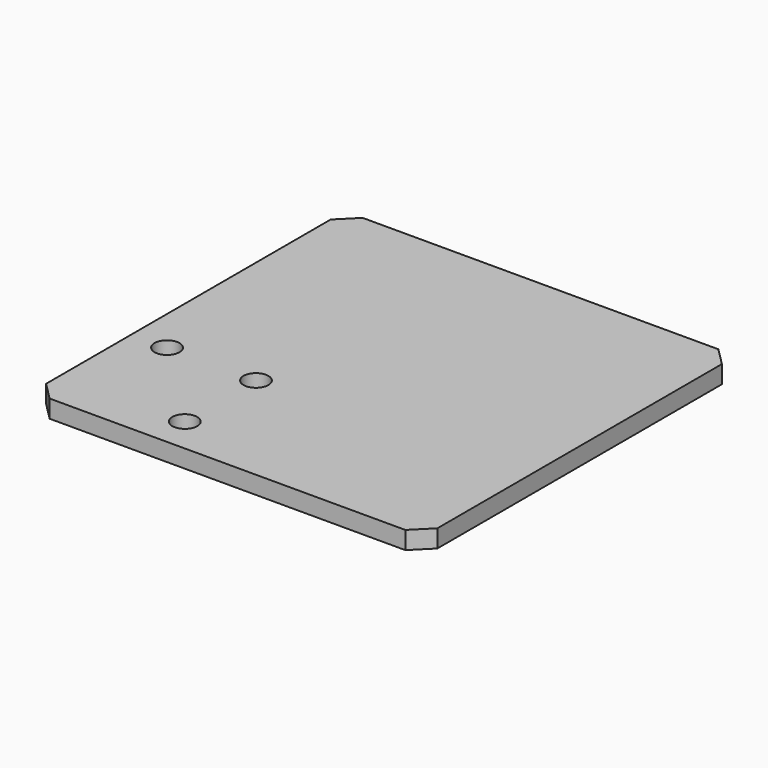
from build123d import *

# Parameters (mm, degrees)
F0_W     = 220
F0_H     = 220
F0_R     = 7
F1_DEPTH = 10
F2_SIZE  = 10


with BuildPart() as f1:
    # F0 (on Top) → F1 (new body)
    with BuildSketch(Plane.XY):
        with Locations((110, 110)):
            Rectangle(F0_W, F0_H)
        with Locations((70, 20)):
            Circle(F0_R, mode=Mode.SUBTRACT)
        with Locations((20, 70)):
            Circle(F0_R, mode=Mode.SUBTRACT)
        with Locations((70, 70)):
            Circle(F0_R, mode=Mode.SUBTRACT)
    extrude(amount=F1_DEPTH)

    # F2
    f2_edges = [f1.edges().sort_by_distance(p)[0] for p in [
        (0, 220, 5),
        (0, 0, 5),
        (220, 0, 5),
        (220, 220, 5),
    ]]
    chamfer(f2_edges, length=F2_SIZE)


solid = f1.part
